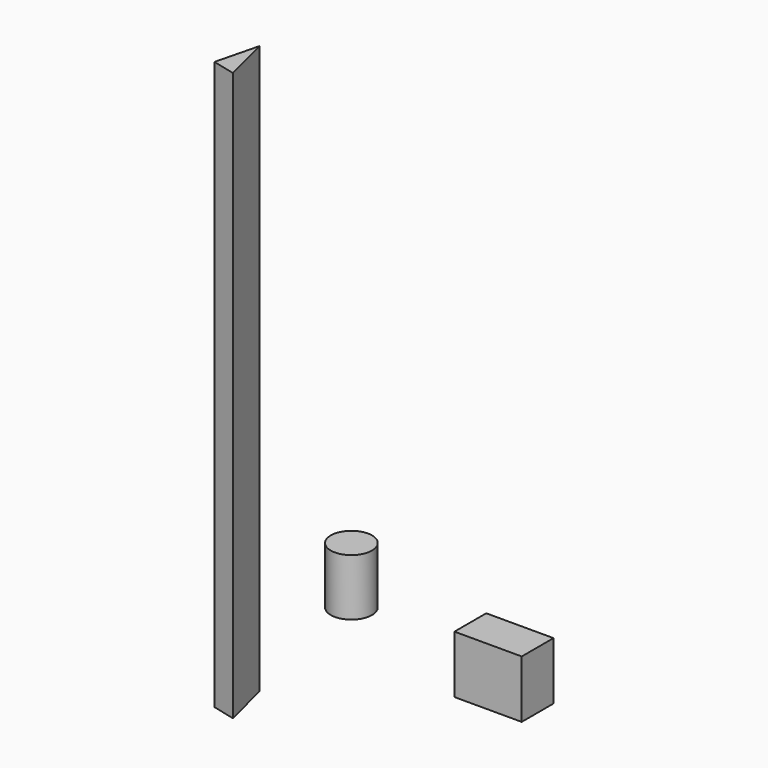
from build123d import *

# Parameters (mm, degrees)
F0_R     = 63.5
F1_DEPTH = 175.26
F0_W     = 207.533106
F0_H     = 122.63321
F2_DEPTH = 177.8
F3_DEPTH = 1752.6


with BuildPart() as f1:
    # F0 (on Top) → F1 (new body)
    with BuildSketch(Plane.XY):
        with Locations((-377.321816, 319.901043)):
            Circle(F0_R)
    extrude(amount=F1_DEPTH)


with BuildPart() as f2:
    # F0 (on Top) → F2 (new body)
    with BuildSketch(Plane.XY):
        with Locations((212.260927, 171.326202)):
            Rectangle(F0_W, F0_H)
    extrude(amount=F2_DEPTH)


with BuildPart() as f3:
    # F0 (on Top) → F3 (new body)
    with BuildSketch(Plane.XY):
        Polygon((-238.994548, -309.930128), (-277.005283, -160.106761), (-310.021927, -292.173275), align=None)
    extrude(amount=F3_DEPTH)


solid = Compound([f1.part, f2.part, f3.part])
